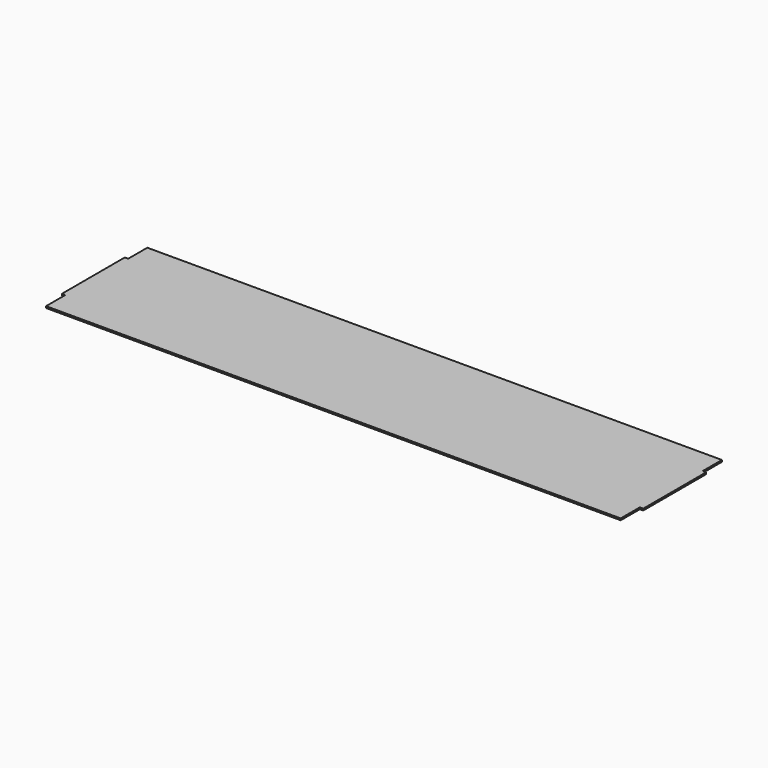
from build123d import *

# Parameters (mm, degrees)
F0_W     = 2159
F0_H     = 469.9
F1_DEPTH = 3.175
F2_W     = 12.7
F2_H     = 88.9
F3_DEPTH = 6.351


with BuildPart() as f1:
    # F0 (on Top) → F1 (new body, symmetric)
    with BuildSketch(Plane.XY):
        Rectangle(F0_W, F0_H)
    extrude(amount=F1_DEPTH, both=True)

    # F2 (on face) → F3 (cut, through all)
    with BuildSketch(Plane.XY.offset(3.175)):
        with Locations((-1073.15, 190.5)):
            Rectangle(F2_W, F2_H)
        with Locations((-1073.15, -190.5)):
            Rectangle(F2_W, F2_H)
        with Locations((1073.15, 190.5)):
            Rectangle(F2_W, F2_H)
        with Locations((1073.15, -190.5)):
            Rectangle(F2_W, F2_H)
    extrude(amount=-F3_DEPTH, mode=Mode.SUBTRACT)


solid = f1.part
